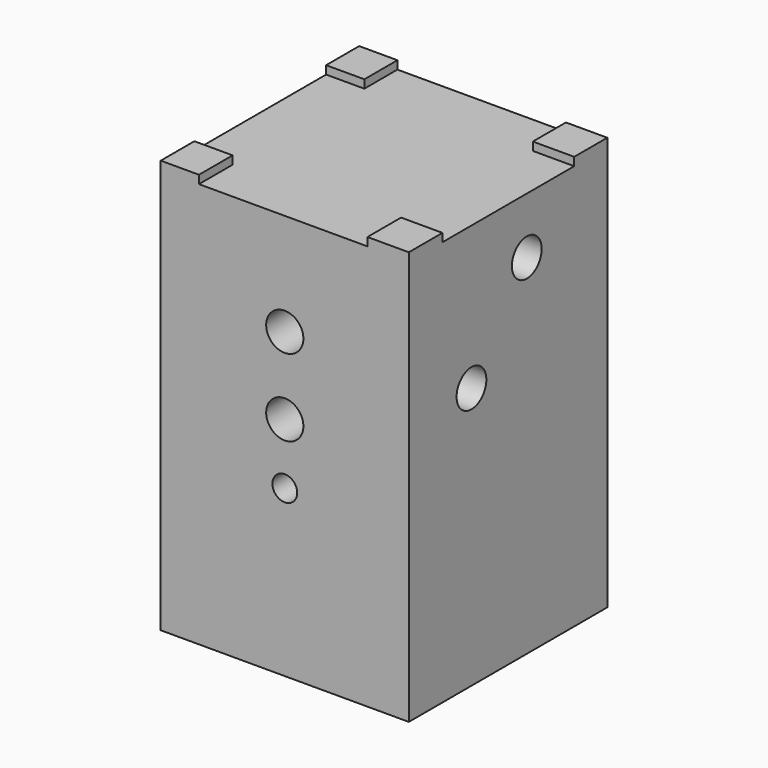
from build123d import *

# Parameters (mm, degrees)
F0_W          = 30
F0_H          = 30
F1_DEPTH      = 42
F1_DEPTH_BACK = 7
F2_R          = 6.75
F3_DEPTH      = 15
F3_DEPTH_BACK = 7
F6_W          = 20
F6_H          = 25.0738771936
F7_DEPTH      = 5
F9_R          = 2.25
F10_DEPTH     = 50
F12_R         = 2.25
F13_DEPTH     = 7
F14_R         = 2.25
F15_DEPTH     = 14
F16_W         = 5
F16_H         = 5
F16_H_2       = 5.0838639587
F16_W_2       = 4.6232988685
F17_DEPTH     = 1
F18_R         = 1.5
F19_DEPTH     = 8.4197768095


with BuildPart() as f1:
    # F0 (on Top) → F1 (new body, two sides)
    with BuildSketch(Plane.XY) as f1_sk:
        Rectangle(F0_W, F0_H)
    extrude(amount=F1_DEPTH)
    extrude(f1_sk.sketch, amount=-F1_DEPTH_BACK)

    # F2 (on Top) → F3 (cut, two sides)
    with BuildSketch(Plane.XY) as f3_sk:
        Circle(F2_R)
    extrude(amount=F3_DEPTH, mode=Mode.SUBTRACT)
    extrude(f3_sk.sketch, amount=-F3_DEPTH_BACK, mode=Mode.SUBTRACT)

    # F6 (on face) → F7 (cut)
    with BuildSketch(Plane(origin=(0, -13.3626828422, 10.4400720362), x_dir=(-1, 0, 0), z_dir=(0, 0.7880107536, -0.6156614753))):
        with Locations((0, 21.5316948633)):
            Rectangle(F6_W, F6_H)
    extrude(amount=-F7_DEPTH, mode=Mode.SUBTRACT)

    # F9 (on offset) → F10 (cut)
    with BuildSketch(Plane.YZ.offset(15)):
        with Locations((-5.5286819115, 24.6767979115)):
            Circle(F9_R)
        with Locations((2.8317631222, 35.1947769523)):
            Circle(F9_R)
    extrude(amount=-F10_DEPTH, mode=Mode.SUBTRACT)

    # F12 (on offset) → F13 (cut)
    with BuildSketch(Plane.XZ.offset(15)):
        with Locations((0, 20.3330869851)):
            Circle(F12_R)
    extrude(amount=-F13_DEPTH, mode=Mode.SUBTRACT)

    # F14 (on offset) → F15 (cut)
    with BuildSketch(Plane.XZ.offset(15)):
        with Locations((0, 29.6528354788)):
            Circle(F14_R)
    extrude(amount=-F15_DEPTH, mode=Mode.SUBTRACT)

    # F16 (on face) → F17 (join)
    with BuildSketch(Plane.XY.offset(42)):
        with Locations((12.5, 12.5)):
            Rectangle(F16_W, F16_H)
        with Locations((12.5, -12.4580680206)):
            Rectangle(F16_W, F16_H_2)
        with Locations((-12.6883505657, -12.4580680206)):
            Rectangle(F16_W_2, F16_H_2)
        with Locations((-12.6883505657, 12.5)):
            Rectangle(F16_W_2, F16_H)
    extrude(amount=F17_DEPTH)

    # F18 (on face) → F19 (cut, through all)
    with BuildSketch(Plane.XZ.offset(15)):
        with Locations((0, 13)):
            Circle(F18_R)
    extrude(amount=-F19_DEPTH, mode=Mode.SUBTRACT)

    # F20 (on Right) → F21 (revolve, cut)
    with BuildSketch(Plane.YZ):
        Polygon((0, -7), (0, 0), (-10, -7), align=None)
    revolve(axis=Axis((0, 0, -3.5), (0, 0, -1)), mode=Mode.SUBTRACT)


solid = f1.part
